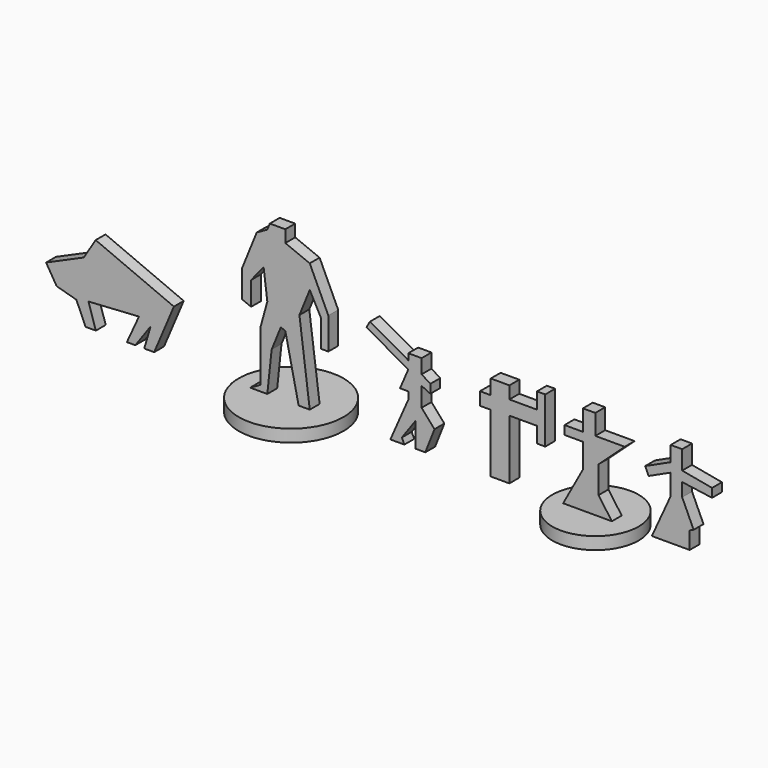
from build123d import *

# Parameters (mm, degrees)
F1_DEPTH = 1
F2_R     = 3.5
F3_DEPTH = 1
F2_R_2   = 4.25
F4_DEPTH = 1


with BuildPart() as f1:
    # F0 (on Front) → F1 (new body)
    with BuildSketch(Plane.XZ):
        Polygon((0, 2.931375), (0, 0), (1.511916, 0), (1.511916, 4.83858), (3.747868, 4.83858), (3.747868, 3.571541), (4.418654, 3.571541), (4.418654, 7.298127), (3.747868, 7.298127), (3.747868, 5.993822), (1.511916, 5.993822), (1.511916, 7), (0, 7), (0, 5.807493), (-0.873099, 5.807493), (-0.873099, 4.764048), (0, 4.764048), align=None)
        Polygon((7.474455, 2.931375), (5.872022, 0), (9.822204, 0), (8.741493, 1.514575), (8.741493, 3.720604), (10.865648, 5.658429), (8.480632, 5.658429), (8.480632, 7.298127), (7.474455, 7.298127), (7.474455, 5.621163), (5.98382, 5.621163), (5.98382, 4.913112), (7.474455, 4.913112), align=None)
        Polygon((14.592235, 3.347945), (13.064334, 0), (16.131149, 0), (16.131149, 1.399641), (16.451944, 1.546672), (15.52388, 3.57154), (15.52388, 4.65225), (17.946162, 4.316857), (17.946162, 5.024909), (15.52388, 5.472099), (15.52388, 7), (14.592235, 7), (14.592235, 5.768673), (12.52176, 4.819706), (12.803473, 4.20506), (14.592235, 5.024909), align=None)
        Polygon((-6.686575, 3.310679), (-8.139944, 0), (-7.006077, 0), (-7.208297, 0.441207), (-6.090321, 2.006374), (-6.090321, 0), (-5.307738, 0), (-4.562421, 1.894576), (-5.605865, 3.087084), (-5.605865, 4.65225), (-4.897814, 4.316857), (-4.897814, 5.024909), (-5.605865, 5.472099), (-5.605865, 6.123173), (-5.605865, 6.627341), (-6.685746, 6.627341), (-6.685746, 6.123173), (-9.799898, 7.868467), (-10.077769, 7.372658), (-6.686575, 5.472099), (-7.357361, 3.906933), (-6.686575, 3.906933), align=None)
        Polygon((-15.578222, 0), (-14.67671, 0), (-15.514247, 6.482509), (-14.67671, 8.54843), (-13.78334, 6.873359), (-13.78334, 4.639931), (-13.169146, 4.639931), (-13.169146, 7.208374), (-14.67671, 10.446845), (-16.657091, 11.249703), (-16.657091, 12.233587), (-17.915183, 12.233587), (-18.117999, 11.733308), (-18.97606, 11.249703), (-20.159341, 8.330947), (-20.159341, 6.091659), (-19.430811, 5.796309), (-19.430811, 7.710895), (-18.417704, 8.966146), (-18.117999, 6.599911), (-18.654327, 4.647767), (-18.654327, 0.477278), (-19.512087, 0), (-18.117999, 0), (-17.766989, 3.287182), (-17.021881, 5.125114), (-16.657091, 4.977226), align=None)
        Polygon((-32.035787, 6.461732), (-33.003295, 4.902968), (-36.057357, 3.550369), (-35.200886, 2.141602), (-33.601068, 1.693653), (-32.85449, 0), (-32.022584, 0), (-32.619849, 1.885631), (-28.524317, 2.141602), (-29.505538, 0), (-28.822949, 0), (-27.585758, 1.736315), (-28.097698, 0), (-27.292471, 0), (-25.69323, 3.774208), align=None)
    extrude(amount=F1_DEPTH)


with BuildPart() as f3:
    # F2 (on Top) → F3 (new body)
    with BuildSketch(Plane.XY):
        with Locations((8.099429, -0.509851)):
            Circle(F2_R)
    extrude(amount=-F3_DEPTH)


with BuildPart() as f4:
    # F2 (on Top) → F4 (new body)
    with BuildSketch(Plane.XY):
        with Locations((-16.623287, -0.45907)):
            Circle(F2_R_2)
    extrude(amount=-F4_DEPTH)


solid = Compound([f1.part, f3.part, f4.part])
